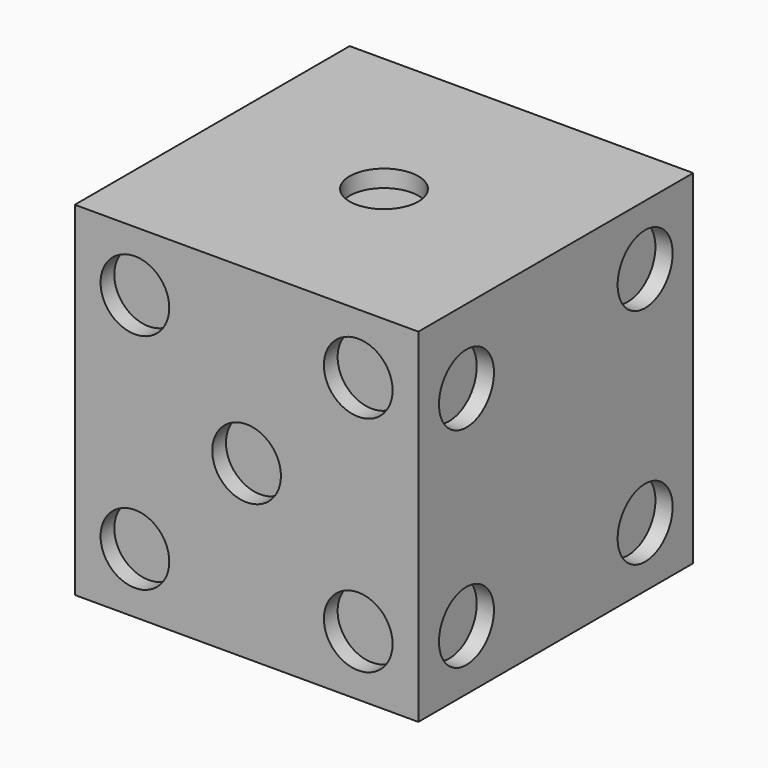
from build123d import *

# Parameters (mm, degrees)
F0_W      = 127
F0_H      = 127
F1_DEPTH  = 127
F2_R      = 12.7
F3_DEPTH  = 6.35
F4_R      = 12.7
F5_DEPTH  = 6.35
F6_R      = 12.7
F7_DEPTH  = 6.35
F8_R      = 12.7
F9_DEPTH  = 6.35
F10_R     = 12.7
F11_DEPTH = 6.35
F12_R     = 12.7
F13_DEPTH = 6.35


with BuildPart() as f1:
    # F0 (on Top) → F1 (new body)
    with BuildSketch(Plane.XY):
        with Locations((63.5, 63.5)):
            Rectangle(F0_W, F0_H)
    extrude(amount=F1_DEPTH)

    # F2 (on face) → F3 (cut)
    with BuildSketch(Plane.XY.offset(127)):
        with Locations((63.5, 63.5)):
            Circle(F2_R)
    extrude(amount=-F3_DEPTH, mode=Mode.SUBTRACT)

    # F4 (on face) → F5 (cut)
    with BuildSketch(Plane(origin=(0, 127, 0), x_dir=(-1, 0, 0), z_dir=(0, 1, 0))):
        with Locations((-104.775, 22.225)):
            Circle(F4_R)
        with Locations((-22.225, 104.775)):
            Circle(F4_R)
    extrude(amount=-F5_DEPTH, mode=Mode.SUBTRACT)

    # F6 (on face) → F7 (cut)
    with BuildSketch(Plane(origin=(0, 0, 0), x_dir=(0, -1, 0), z_dir=(-1, 0, 0))):
        with Locations((-104.775, 22.225)):
            Circle(F6_R)
        with Locations((-63.5, 63.5)):
            Circle(F6_R)
        with Locations((-22.225, 104.775)):
            Circle(F6_R)
    extrude(amount=-F7_DEPTH, mode=Mode.SUBTRACT)

    # F8 (on face) → F9 (cut)
    with BuildSketch(Plane.YZ.offset(127)):
        with Locations((22.225, 99.482931)):
            Circle(F8_R)
        with Locations((104.775, 104.775)):
            Circle(F8_R)
        with Locations((104.775, 22.225)):
            Circle(F8_R)
        with Locations((22.225, 22.225)):
            Circle(F8_R)
    extrude(amount=-F9_DEPTH, mode=Mode.SUBTRACT)

    # F10 (on face) → F11 (cut)
    with BuildSketch(Plane.XZ):
        with Locations((104.775, 104.775)):
            Circle(F10_R)
        with Locations((104.775, 22.225)):
            Circle(F10_R)
        with Locations((22.225, 22.225)):
            Circle(F10_R)
        with Locations((63.5, 63.5)):
            Circle(F10_R)
        with Locations((22.225, 104.775)):
            Circle(F10_R)
    extrude(amount=-F11_DEPTH, mode=Mode.SUBTRACT)

    # F12 (on face) → F13 (cut)
    with BuildSketch(Plane(origin=(0, 0, 0), x_dir=(1, 0, 0), z_dir=(0, 0, -1))):
        with Locations((22.225, -22.225)):
            Circle(F12_R)
        with Locations((22.225, -63.5)):
            Circle(F12_R)
        with Locations((22.225, -104.775)):
            Circle(F12_R)
        with Locations((104.775, -22.225)):
            Circle(F12_R)
        with Locations((104.775, -63.5)):
            Circle(F12_R)
        with Locations((104.775, -104.775)):
            Circle(F12_R)
    extrude(amount=-F13_DEPTH, mode=Mode.SUBTRACT)


solid = f1.part
